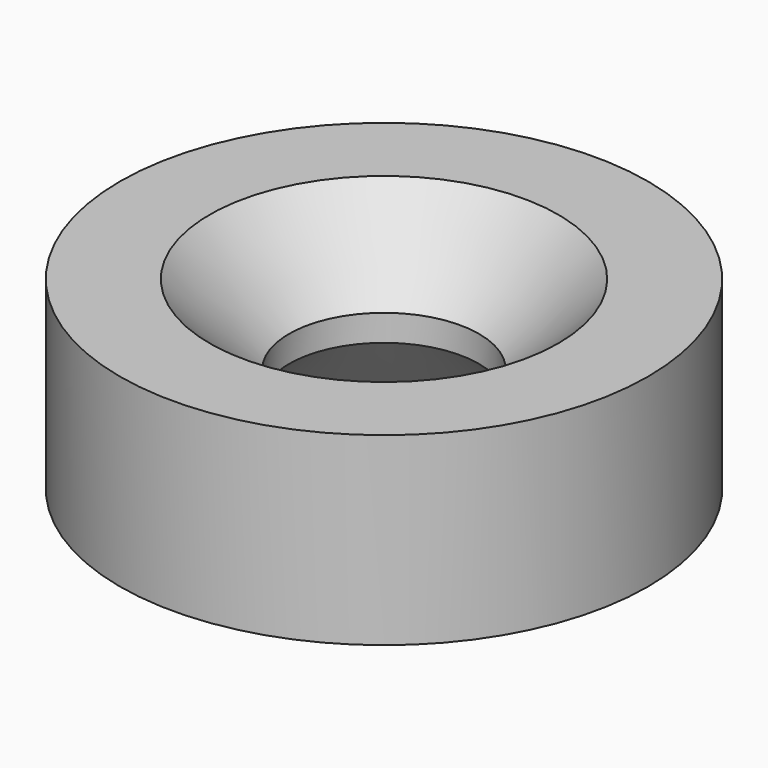
from build123d import *

# Parameters (mm, degrees)
SKETCH_R     = 10
SKETCH_R_2   = 3.6
PAD_DEPTH    = 7
CHAMFER_SIZE = 3


with BuildPart() as part:
    # Sketch → Pad (new body)
    with BuildSketch(Plane.XY):
        Circle(SKETCH_R)
        Circle(SKETCH_R_2, mode=Mode.SUBTRACT)
    extrude(amount=PAD_DEPTH)

    # Chamfer
    chamfer_edges = [part.edges().sort_by_distance(p)[0] for p in [
        (-3.6, 0, 7),
        (-3.6, 0, 0),
    ]]
    chamfer(chamfer_edges, length=CHAMFER_SIZE)


solid = part.part
